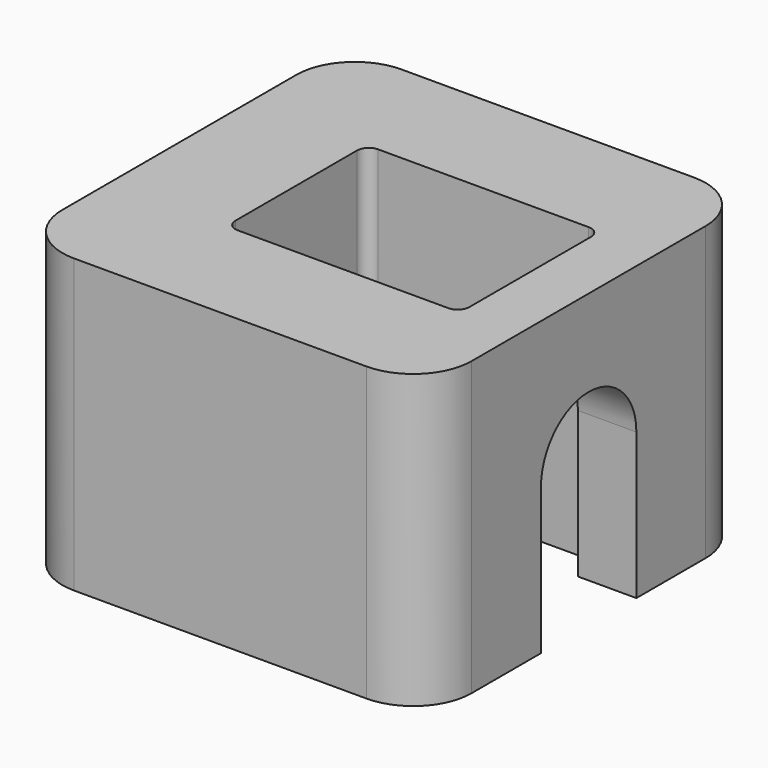
from build123d import *

# Parameters (mm, degrees)
F0_W     = 10
F0_H     = 15
F0_W_2   = 5
F0_H_2   = 10.2
F1_DEPTH = 25
F3_DEPTH = 15
F4_R     = 3
F5_DEPTH = 25
F6_R     = 1
F7_R     = 5


with BuildPart() as f1:
    # F0 (on Top) → F1 (new body)
    with BuildSketch(Plane.XY):
        Polygon((15, -17.5), (15, -7.5), (-5, -7.5), (-15, -7.5), (-15, -17.5), align=None)
        with Locations((-10, 0)):
            Rectangle(F0_W, F0_H)
        Polygon((-15, 7.5), (-5, 7.5), (15, 7.5), (15, 17.5), (-15, 17.5), align=None)
        Polygon((15, 7.5), (15, 5.1), (20, 5.1), (20, 17.5), (15, 17.5), align=None)
        with Locations((17.5, 0)):
            Rectangle(F0_W_2, F0_H_2)
        Polygon((15, -5.1), (15, -7.5), (15, -17.5), (20, -17.5), (20, -5.1), align=None)
    extrude(amount=F1_DEPTH)

    # F2 (on face) → F3 (cut)
    with BuildSketch(Plane.YZ.offset(20)):
        with BuildLine():
            ThreePointArc((-5.1, 12.5), (0, 7.4), (5.1, 12.5))
            ThreePointArc((5.1, 12.5), (0, 17.6), (-5.1, 12.5))
        make_face()
        with BuildLine():
            Line((5.1, 0), (5.1, 12.5))
            ThreePointArc((5.1, 12.5), (0, 7.4), (-5.1, 12.5))
            Line((-5.1, 12.5), (-5.1, 0))
            Line((-5.1, 0), (5.1, 0))
        make_face()
    extrude(amount=-F3_DEPTH, mode=Mode.SUBTRACT)

    # F4 (on face) → F5 (cut)
    with BuildSketch(Plane(origin=(-15, 0, 0), x_dir=(0, -1, 0), z_dir=(-1, 0, 0))):
        with Locations((0, 12.5)):
            Circle(F4_R)
    extrude(amount=-F5_DEPTH, mode=Mode.SUBTRACT)

    # F6
    f6_edges = [f1.edges().sort_by_distance(p)[0] for p in [
        (15, -7.5, 12.5),
        (15, 7.5, 12.5),
        (-5, -7.5, 12.5),
        (-5, 7.5, 12.5),
    ]]
    fillet(f6_edges, radius=F6_R)

    # F7
    f7_edges = [f1.edges().sort_by_distance(p)[0] for p in [
        (20, 17.5, 12.5),
        (20, -17.5, 12.5),
        (-15, -17.5, 12.5),
        (-15, 17.5, 12.5),
    ]]
    fillet(f7_edges, radius=F7_R)


solid = f1.part
